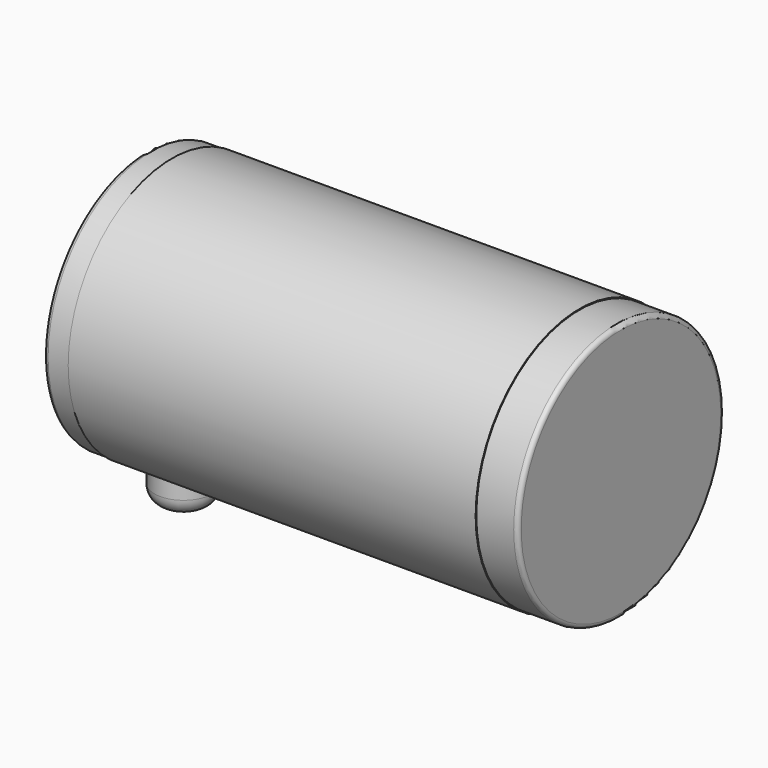
from build123d import *

# Parameters (mm, degrees)
SKETCH007_R  = 3.5
PAD004_DEPTH = 18
FILLET_R     = 2
FILLET001_R  = 0.5


with BuildPart() as part:
    # Sketch006 → Revolution (revolve)
    with BuildSketch(Plane.XY):
        Polygon((-38.2, 0), (-38.2, 15.5), (-43.2, 15.5), (-43.2, 15.6), (-92.2, 15.6), (-92.2, 15.5), (-95.2, 15.5), (-95.2, 6), (-97.2, 6), (-97.2, 2), (-96.7, 2), (-96.7, 1.5), (-98.9, 1.5), (-98.9, 0), align=None)
    revolve(axis=Axis((0, 0, 0), (1, 0, 0)))

    # Sketch007 → Pad004 (new body)
    with BuildSketch(Plane.XY):
        with Locations((-88, -3.5)):
            Circle(SKETCH007_R)
    extrude(amount=-PAD004_DEPTH)

    # Fillet
    fillet_edges = [part.edges().sort_by_distance(p)[0] for p in [
        (-91.5, -3.5, -18),
    ]]
    fillet(fillet_edges, radius=FILLET_R)

    # Fillet001
    fillet001_edges = [part.edges().sort_by_distance(p)[0] for p in [
        (-95.2, -15.5, 0),
        (-38.2, -15.5, 0),
        (-97.2, -6, 0),
        (-98.9, -1.5, 0),
    ]]
    fillet(fillet001_edges, radius=FILLET001_R)


with BuildPart() as part_1:
    # Body001 placement: moved
    add(part.part.moved(Location((0, -0.5, -17.9))))


solid = part_1.part
